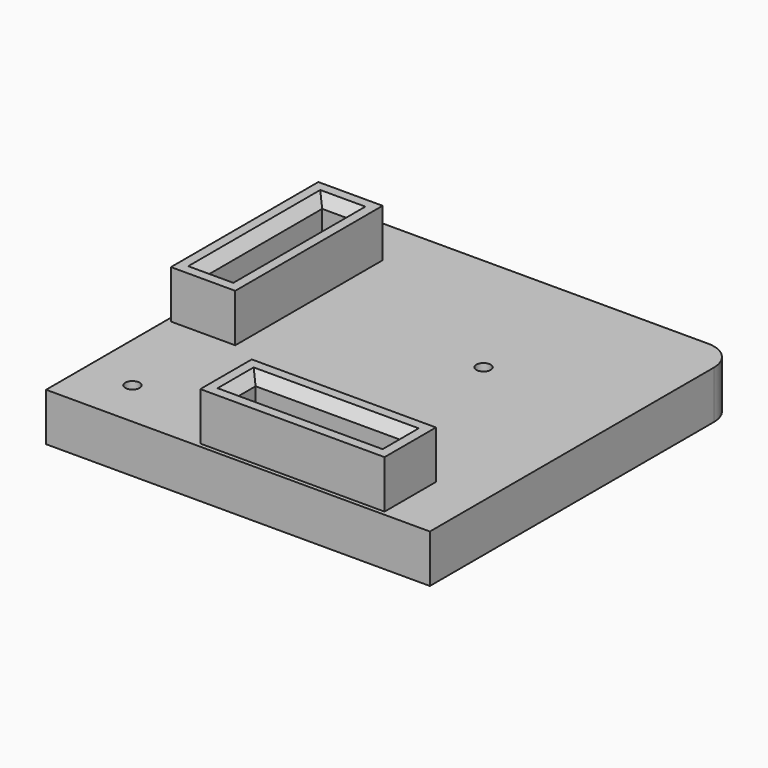
from build123d import *

# Parameters (mm, degrees)
SKETCH_R      = 0.75
PAD_DEPTH     = 5
SKETCH001_W   = 6.7
SKETCH001_H   = 19.2
SKETCH001_W_2 = 2.7
SKETCH001_H_2 = 15.2
SKETCH001_W_3 = 19.2
SKETCH001_H_3 = 6.7
SKETCH001_W_4 = 15.2
SKETCH001_H_4 = 2.7
PAD001_DEPTH  = 5
CHAMFER_SIZE  = 1


with BuildPart() as part:
    # Sketch → Pad (new body)
    with BuildSketch(Plane.XY):
        with BuildLine():
            Line((0, 0), (40, 0))
            Line((40, 0), (40, 37))
            ThreePointArc((40, 37), (39.12132, 39.12132), (37, 40))
            Line((37, 40), (0, 40))
            Line((0, 40), (0, 0))
        make_face()
        with Locations((5, 5)):
            Circle(SKETCH_R, mode=Mode.SUBTRACT)
        with Locations((25.33016, 25.33016)):
            Circle(SKETCH_R, mode=Mode.SUBTRACT)
    extrude(amount=PAD_DEPTH)

    # Sketch001 (on Face9 of Pad) → Pad001 (join)
    with BuildSketch(Plane.XY.offset(5)):
        with Locations((3.78016, 25.33016)):
            Rectangle(SKETCH001_W, SKETCH001_H)
        with Locations((3.78016, 25.33016)):
            Rectangle(SKETCH001_W_2, SKETCH001_H_2, mode=Mode.SUBTRACT)
        with Locations((25.33016, 3.78016)):
            Rectangle(SKETCH001_W_3, SKETCH001_H_3)
        with Locations((25.33016, 3.78016)):
            Rectangle(SKETCH001_W_4, SKETCH001_H_4, mode=Mode.SUBTRACT)
    extrude(amount=PAD001_DEPTH)

    # Chamfer
    chamfer_edges = [part.edges().sort_by_distance(p)[0] for p in [
        (25.33016, 2.43016, 10),
        (17.73016, 3.78016, 10),
        (25.33016, 5.13016, 10),
        (32.93016, 3.78016, 10),
        (5.13016, 25.33016, 10),
        (3.78016, 17.73016, 10),
        (2.43016, 25.33016, 10),
        (3.78016, 32.93016, 10),
    ]]
    chamfer(chamfer_edges, length=CHAMFER_SIZE)


solid = part.part
